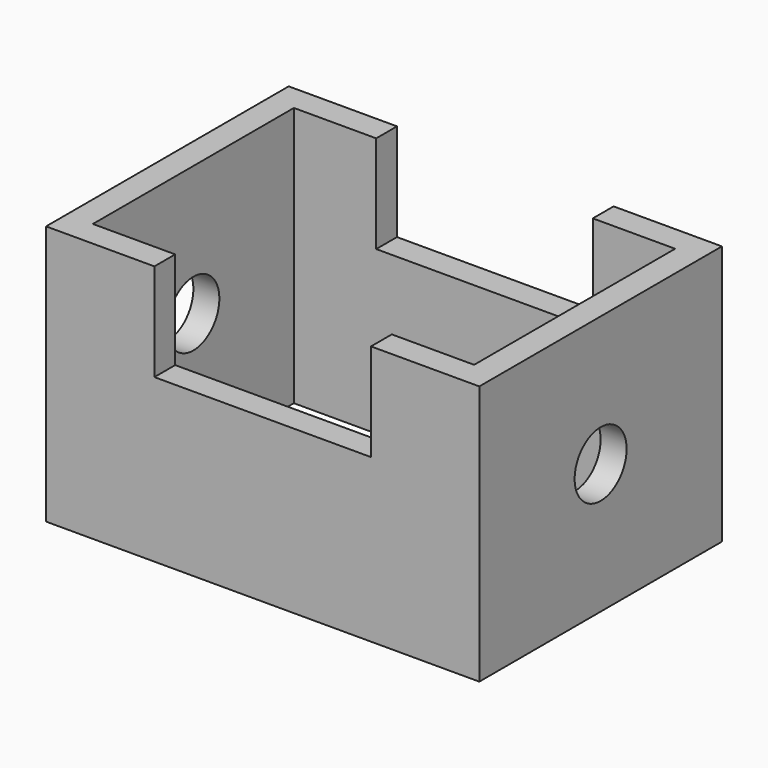
from build123d import *

# Parameters (mm, degrees)
F0_W     = 200
F0_H     = 140
F0_W_2   = 176
F0_H_2   = 116
F1_DEPTH = 120
F2_R     = 15
F3_DEPTH = 200.001
F4_W     = 100
F4_H     = 45
F5_DEPTH = 140.001


with BuildPart() as f1:
    # F0 (on Top) → F1 (new body)
    with BuildSketch(Plane.XY):
        Rectangle(F0_W, F0_H)
        Rectangle(F0_W_2, F0_H_2, mode=Mode.SUBTRACT)
    extrude(amount=F1_DEPTH)

    # F2 (on face) → F3 (cut, through all)
    with BuildSketch(Plane.YZ.offset(100)):
        with Locations((0, 60)):
            Circle(F2_R)
    extrude(amount=-F3_DEPTH, mode=Mode.SUBTRACT)

    # F4 (on face) → F5 (cut, through all)
    with BuildSketch(Plane.XZ.offset(70)):
        with Locations((0, 97.5)):
            Rectangle(F4_W, F4_H)
    extrude(amount=-F5_DEPTH, mode=Mode.SUBTRACT)


solid = f1.part
